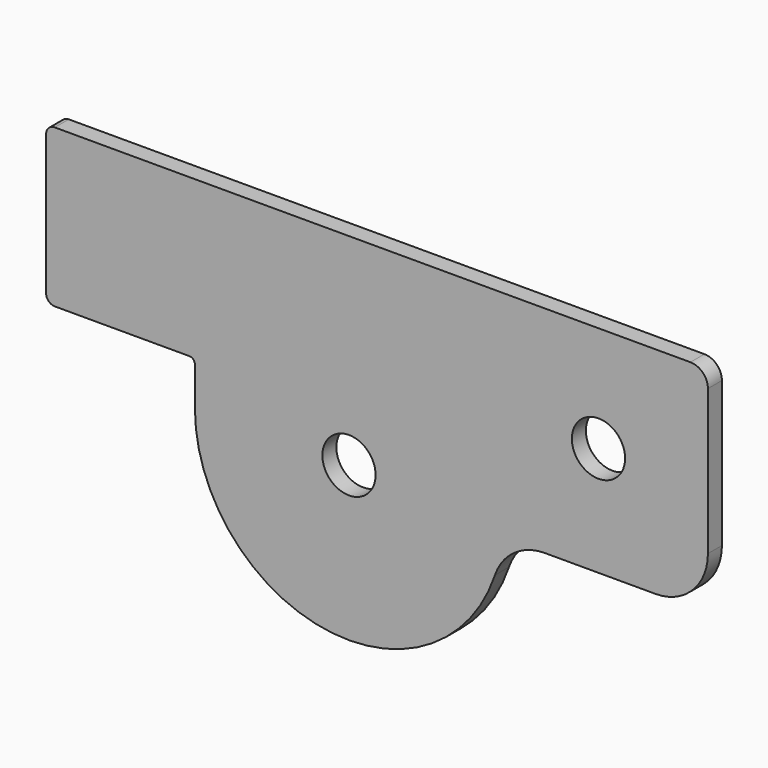
from build123d import *

# Parameters (mm, degrees)
F0_R     = 9.652
F1_DEPTH = 6.35


with BuildPart() as f1:
    # F0 (on Front) → F1 (new body)
    with BuildSketch(Plane.XZ):
        with BuildLine():
            ThreePointArc((-2.032, -57.15), (-0.595159, -57.745159), (0, -59.182))
            Line((0, -59.182), (0, -73.152))
            ThreePointArc((0, -73.152), (46.814366, -128.29172), (108.818492, -91.043071))
            ThreePointArc((108.818492, -91.043071), (115.759127, -81.665013), (126.865706, -78.0923))
            Line((126.865706, -78.0923), (167.005, -78.0923))
            ThreePointArc((167.005, -78.0923), (180.475384, -72.512684), (186.055, -59.0423))
            Line((186.055, -59.0423), (186.055, -6.35))
            ThreePointArc((186.055, -6.35), (184.195128, -1.859872), (179.705, 0))
            Line((179.705, 0), (0, 0))
            Line((0, 0), (-50.8, 0))
            ThreePointArc((-50.8, 0), (-53.045064, -0.929936), (-53.975, -3.175))
            Line((-53.975, -3.175), (-53.975, -53.975))
            ThreePointArc((-53.975, -53.975), (-53.045064, -56.220064), (-50.8, -57.15))
            Line((-50.8, -57.15), (-2.032, -57.15))
        make_face()
        with Locations((55.88, -73.152)):
            Circle(F0_R, mode=Mode.SUBTRACT)
        with Locations((146.3675, -38.4175)):
            Circle(F0_R, mode=Mode.SUBTRACT)
    extrude(amount=F1_DEPTH)


solid = f1.part
